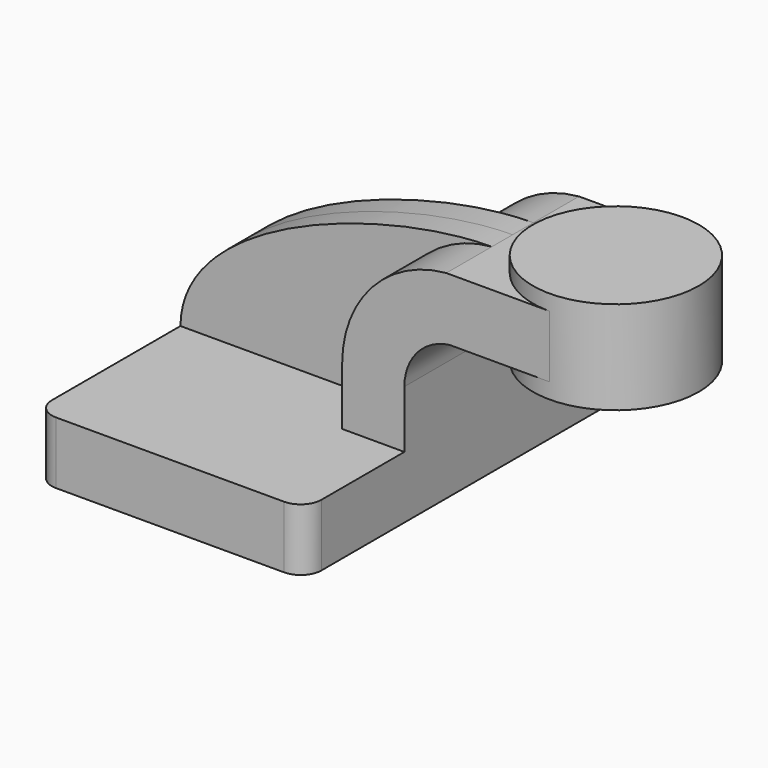
from build123d import *

# Parameters (mm, degrees)
F1_DEPTH = 63.5
F0_W     = 25.4
F0_H     = 19.05
F2_DEPTH = 25.4
F3_DEPTH = 7.9375
F5_R     = 6.35


with BuildPart() as f1:
    # F0 (on Front) → F1 (new body, symmetric)
    with BuildSketch(Plane.XZ):
        Polygon((22.225, 9.525), (-41.275, 9.525), (-41.275, -9.525), (41.275, -9.525), (41.275, 9.525), align=None)
    extrude(amount=F1_DEPTH, both=True)

    # F0 (on Front) → F2 (join, symmetric)
    with BuildSketch(Plane.XZ):
        with BuildLine():
            Line((22.225, 27.1329251639), (22.225, 9.525))
            Line((22.225, 9.525), (41.275, 9.525))
            Line((41.275, 9.525), (41.275, 27.1329251639))
            ThreePointArc((41.275, 27.1329251639), (45.2223896263, 37.6089805175), (55.1014863965, 42.8752))
            Line((55.1014863965, 42.8752), (60.325, 42.8752))
            Line((60.325, 42.8752), (60.325, 61.9252))
            Line((60.325, 61.9252), (54.1080866667, 61.9252))
            ThreePointArc((54.1080866667, 61.9252), (31.4012675247, 50.7286536103), (22.225, 27.1329251639))
        make_face()
        with Locations((73.025, 52.4002)):
            Rectangle(F0_W, F0_H)
    extrude(amount=F2_DEPTH, both=True)

    # F0 (on Front) → F3 (join, symmetric)
    with BuildSketch(Plane.XZ):
        with BuildLine():
            add(Edge.make_bspline(
                [(-41.275, 9.525), (-41.0163253546, 41.691955179), (21.8831021339, 61.9252), (54.1080866667, 61.9252)],
                knots=[0, 0, 0, 0, 108.8288297379, 108.8288297379, 108.8288297379, 108.8288297379], degree=3))
            Line((-41.275, 9.525), (22.225, 9.525))
            Line((22.225, 9.525), (22.225, 27.1329251639))
            ThreePointArc((22.225, 27.1329251639), (31.4012675247, 50.7286536103), (54.1080866667, 61.9252))
        make_face()
    extrude(amount=F3_DEPTH, both=True)

    # F5
    f5_edges = [f1.edges().sort_by_distance(p)[0] for p in [
        (41.275, -63.5, 0),
        (41.275, 63.5, 0),
        (-41.275, 63.5, 0),
        (-41.275, -63.5, 0),
    ]]
    fillet(f5_edges, radius=F5_R)


with BuildPart() as f4:
    # F0 (on Front) → F4 (revolve)
    with BuildSketch(Plane.XZ):
        Polygon((85.725, 66.675), (85.725, 61.9252), (85.725, 42.8752), (85.725, 38.1), (111.125, 38.1), (111.125, 66.675), align=None)
    revolve(axis=Axis((85.725, 0, 52.3875), (0, 0, -1)))


solid = Compound([f1.part, f4.part])
